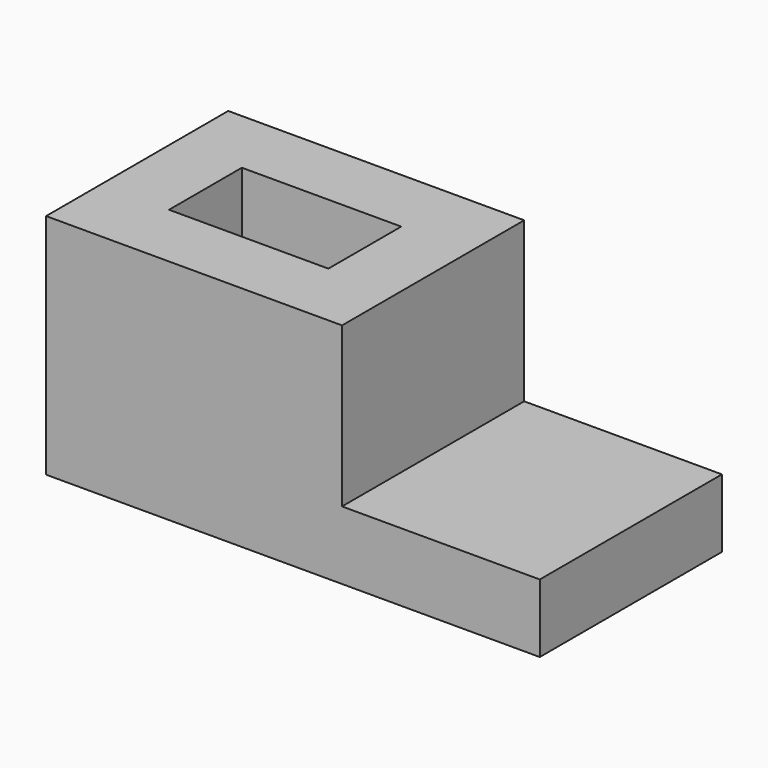
from build123d import *

# Parameters (mm, degrees)
F0_W     = 82.55
F0_H     = 63.5
F1_DEPTH = 63.5
F0_W_2   = 55.153496
F2_DEPTH = 19.05
F4_DEPTH = 63.501


with BuildPart() as f1:
    # F0 (on Top) → F1 (new body)
    with BuildSketch(Plane.XY):
        with Locations((-41.275, 31.75)):
            Rectangle(F0_W, F0_H)
    extrude(amount=F1_DEPTH)

    # F0 (on Top) → F2 (join)
    with BuildSketch(Plane.XY):
        with Locations((27.576748, 31.75)):
            Rectangle(F0_W_2, F0_H)
    extrude(amount=F2_DEPTH)

    # F3 (on face) → F4 (cut, through all)
    with BuildSketch(Plane.XY.offset(63.5)):
        Polygon((-63.5, 44.45), (-63.5, 31.75), (-63.5, 19.05), (-41.275, 19.05), (-19.05, 19.05), (-19.05, 31.75), (-19.05, 44.45), (-41.275, 44.45), align=None)
    extrude(amount=-F4_DEPTH, mode=Mode.SUBTRACT)


solid = f1.part
